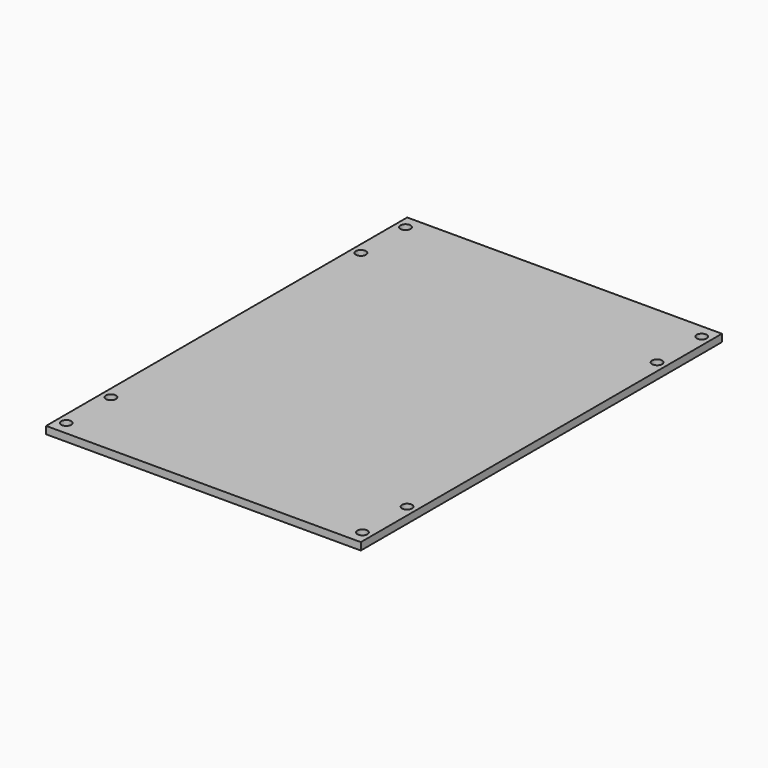
from build123d import *

# Parameters (mm, degrees)
F0_W     = 134.69465
F0_H     = 193.1797
F0_R     = 2.15265
F1_DEPTH = 3.175


with BuildPart() as f1:
    # F0 (on Top) → F1 (new body)
    with BuildSketch(Plane.XY):
        Rectangle(F0_W, F0_H)
        with Locations((-63.378575, -90.74785)):
            Circle(F0_R, mode=Mode.SUBTRACT)
        with Locations((-63.378575, -66.87185)):
            Circle(F0_R, mode=Mode.SUBTRACT)
        with Locations((63.378575, -90.74785)):
            Circle(F0_R, mode=Mode.SUBTRACT)
        with Locations((63.378575, -66.87185)):
            Circle(F0_R, mode=Mode.SUBTRACT)
        with Locations((-63.378575, 66.87185)):
            Circle(F0_R, mode=Mode.SUBTRACT)
        with Locations((-63.378575, 90.74785)):
            Circle(F0_R, mode=Mode.SUBTRACT)
        with Locations((63.378575, 66.87185)):
            Circle(F0_R, mode=Mode.SUBTRACT)
        with Locations((63.378575, 90.74785)):
            Circle(F0_R, mode=Mode.SUBTRACT)
    extrude(amount=F1_DEPTH)


solid = f1.part
